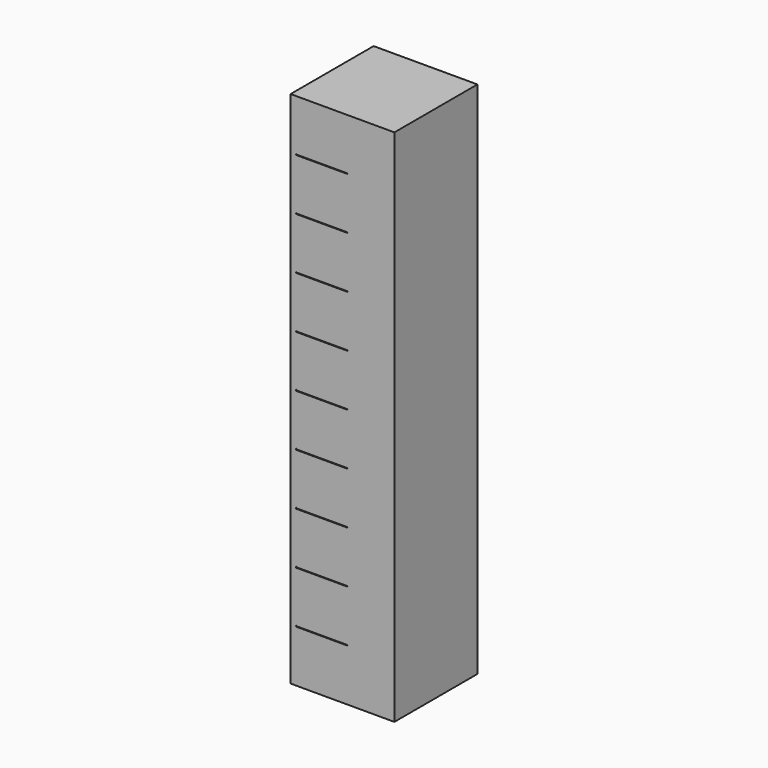
from build123d import *

# Parameters (mm, degrees)
F0_W     = 20
F0_H     = 20
F1_DEPTH = 100
F2_W     = 10
F2_H     = 0.2
F3_DEPTH = 0.15


with BuildPart() as f1:
    # F0 (on Top) → F1 (new body)
    with BuildSketch(Plane.XY):
        Rectangle(F0_W, F0_H)
    extrude(amount=F1_DEPTH)

    # F2 (on face) → F3 (cut)
    with BuildSketch(Plane.XZ.offset(10)):
        with Locations((-4, 10.1)):
            Rectangle(F2_W, F2_H)
        with Locations((-4, 20.1)):
            Rectangle(F2_W, F2_H)
        with Locations((-4, 30.1)):
            Rectangle(F2_W, F2_H)
        with Locations((-4, 40.1)):
            Rectangle(F2_W, F2_H)
        with Locations((-4, 50.1)):
            Rectangle(F2_W, F2_H)
        with Locations((-4, 60.1)):
            Rectangle(F2_W, F2_H)
        with Locations((-4, 70.1)):
            Rectangle(F2_W, F2_H)
        with Locations((-4, 80.1)):
            Rectangle(F2_W, F2_H)
        with Locations((-4, 90.1)):
            Rectangle(F2_W, F2_H)
        with Locations((-4, 100.1)):
            Rectangle(F2_W, F2_H)
    extrude(amount=-F3_DEPTH, mode=Mode.SUBTRACT)


solid = f1.part
